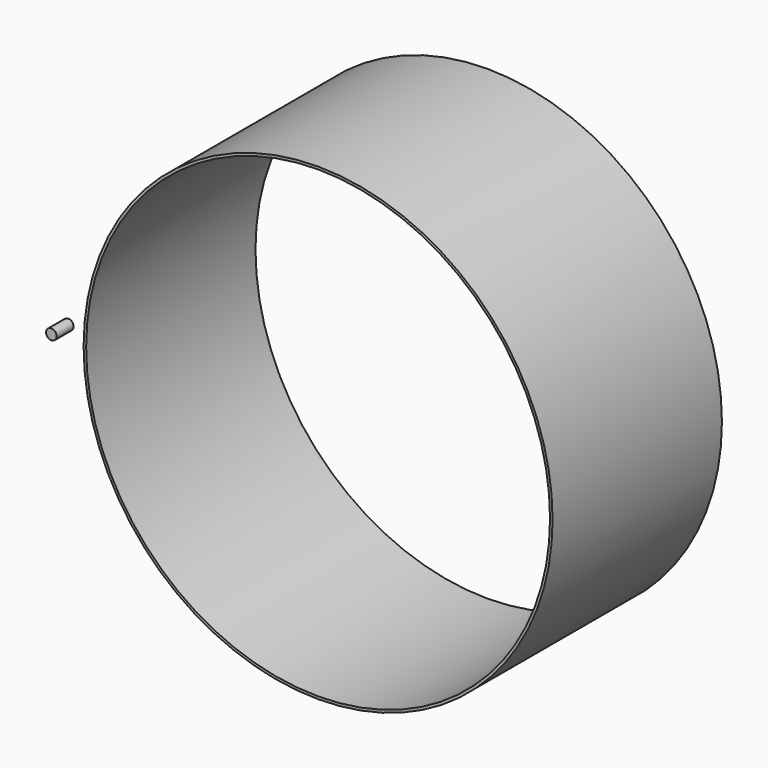
from build123d import *

# Parameters (mm, degrees)
F0_R     = 25
F1_DEPTH = 100
F2_R     = 1107.72
F2_R_2   = 1095.72
F3_DEPTH = 1000


with BuildPart() as f1:
    # F0 (on Front) → F1 (new body)
    with BuildSketch(Plane.XZ):
        Circle(F0_R)
    extrude(amount=-F1_DEPTH)


with BuildPart() as f3:
    # F2 (on Front) → F3 (new body)
    with BuildSketch(Plane.XZ):
        with Locations((1260, 0)):
            Circle(F2_R)
        with Locations((1260, 0)):
            Circle(F2_R_2, mode=Mode.SUBTRACT)
    extrude(amount=-F3_DEPTH)


solid = Compound([f1.part, f3.part])
